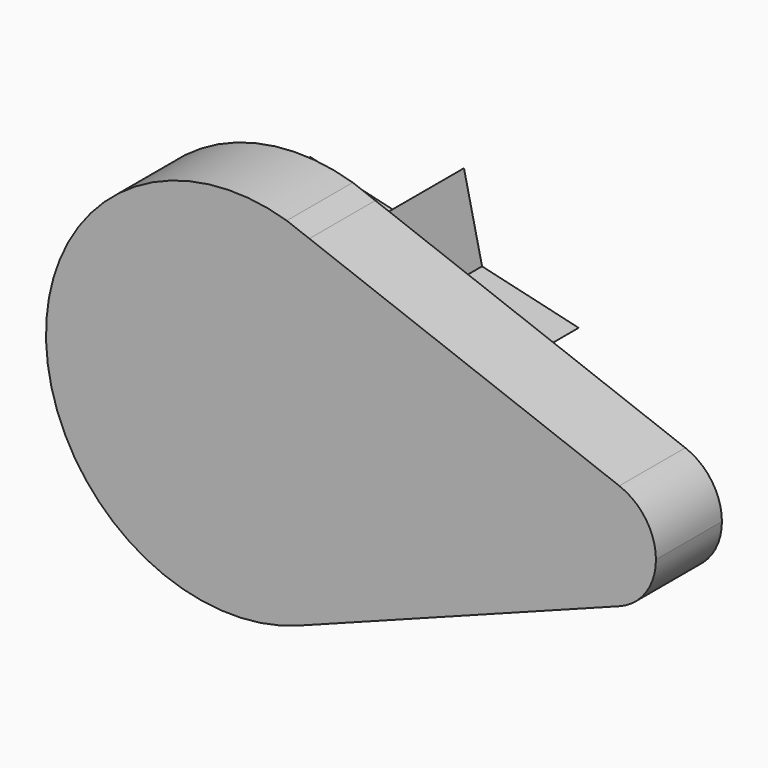
from build123d import *

# Parameters (mm, degrees)
F1_DEPTH = 8.89
F3_DEPTH = 23.876


with BuildPart() as f1:
    # F0 (on Front) → F1 (new body)
    with BuildSketch(Plane.XZ):
        with BuildLine():
            Line((8.2922062962, 18.3095482144), (5.8601442877, 19.2265168453))
            ThreePointArc((5.8601442877, 19.2265168453), (-20.0888672231, -0.6615548125), (7.1123886499, -18.7993129866))
            ThreePointArc((7.1123886499, -18.7993129866), (16.5371933279, -11.4245996827), (20.0997572392, 0))
            ThreePointArc((20.0997572392, 0), (16.8918852501, 10.8933215216), (8.2922062962, 18.3095482144))
        make_face()
        with BuildLine():
            ThreePointArc((20.0997572392, 0), (16.5371933279, -11.4245996827), (7.1123886499, -18.7993129866))
            Line((7.1123886499, -18.7993129866), (41.7047212119, -5.7119138))
            ThreePointArc((41.7047212119, -5.7119138), (33.4467243991, 0), (41.7047212119, 5.7119138))
            Line((41.7047212119, 5.7119138), (8.2922062962, 18.3095482144))
            ThreePointArc((8.2922062962, 18.3095482144), (16.8918852501, 10.8933215216), (20.0997572392, 0))
        make_face()
        with BuildLine():
            ThreePointArc((41.7047212119, 5.7119138), (33.4467243991, 0), (41.7047212119, -5.7119138))
            Line((41.7047212119, -5.7119138), (41.7047212119, 5.7119138))
        make_face()
        with BuildLine():
            Line((41.7047212119, 5.7119138), (41.7047212119, -5.7119138))
            ThreePointArc((41.7047212119, -5.7119138), (44.5716087418, -3.4725723137), (45.6555533566, 0))
            ThreePointArc((45.6555533566, 0), (44.5716087418, 3.4725723137), (41.7047212119, 5.7119138))
        make_face()
    extrude(amount=F1_DEPTH)

    # F2 (on face) → F3 (join)
    with BuildSketch(Plane.XZ.offset(8.89)):
        Polygon((5.8601442877, 14.4999762997), (1.981993678, 7.1901451267), (7.8095722297, 5.8180000225), align=None)
        Polygon((7.8095722297, 5.8180000225), (1.981993678, 7.1901451267), (-1.1140019774, 1.3545786852), (5.1359782959, -4.3957886373), (9.519282463, -1.7963689762), align=None)
        Polygon((1.981993678, 7.1901451267), (-10.7028093189, 10.1768728346), (-1.1140019774, 1.3545786852), align=None)
        Polygon((5.1359782959, -4.3957886373), (-1.1140019774, 1.3545786852), (-8.434349671, -12.4433655292), align=None)
        Polygon((9.519282463, -1.7963689762), (5.1359782959, -4.3957886373), (11.3962469622, -10.1556219161), align=None)
        Polygon((18.2240977883, 3.365825396), (7.8095722297, 5.8180000225), (9.519282463, -1.7963689762), align=None)
    extrude(amount=-F3_DEPTH)


solid = f1.part
